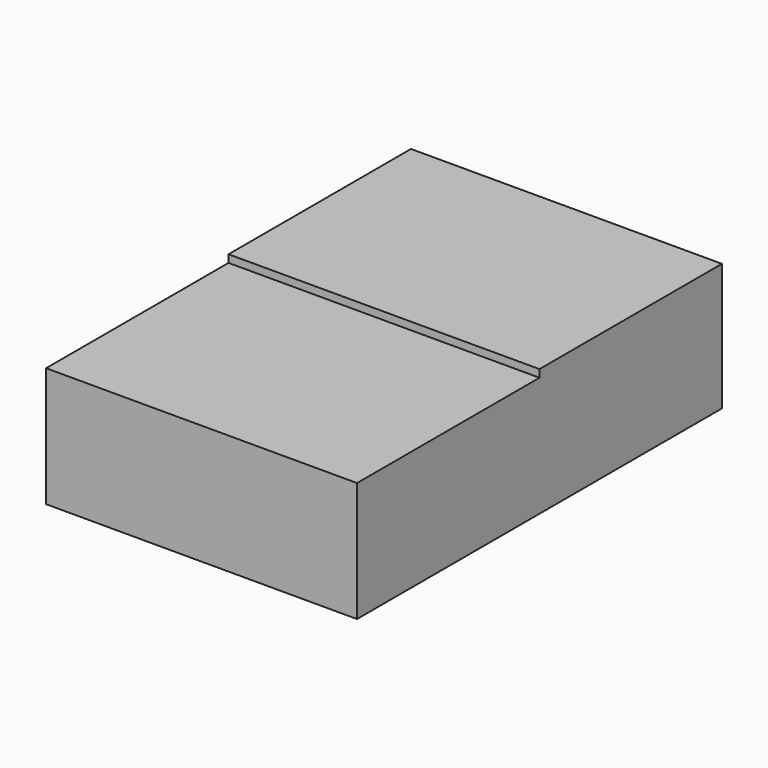
from build123d import *

# Parameters (mm, degrees)
F0_W     = 103.888952
F0_H     = 40.005002
F1_DEPTH = 152.4
F2_W     = 103.888952
F2_H     = 76.2
F3_DEPTH = 2.54


with BuildPart() as f1:
    # F0 (on Front) → F1 (new body)
    with BuildSketch(Plane.XZ):
        Rectangle(F0_W, F0_H)
    extrude(amount=F1_DEPTH)

    # F2 (on face) → F3 (join)
    with BuildSketch(Plane.XY.offset(20.002501)):
        with Locations((0, -38.1)):
            Rectangle(F2_W, F2_H)
    extrude(amount=F3_DEPTH)


solid = f1.part
